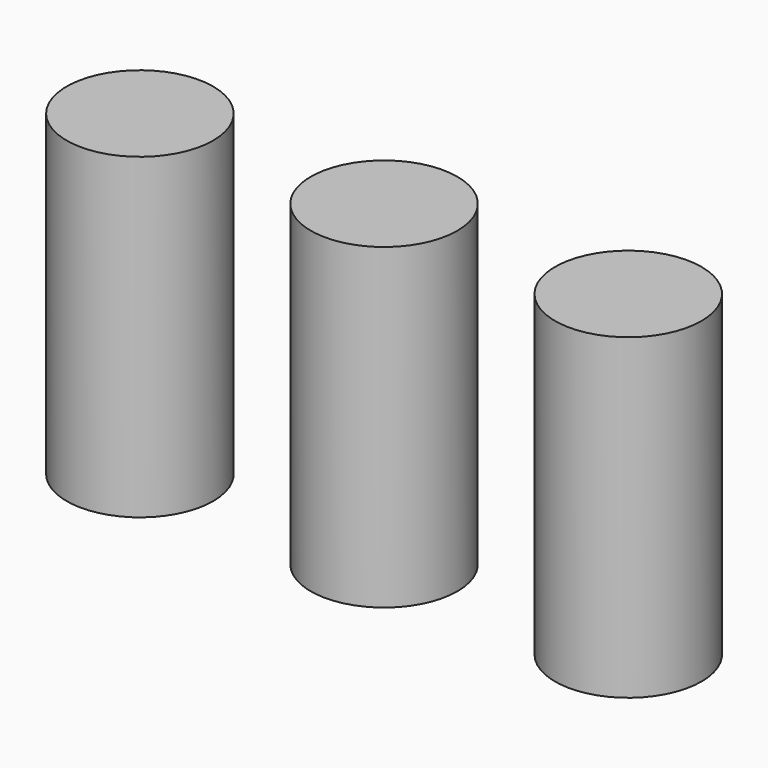
from build123d import *

# Parameters (mm, degrees)
CYLINDER_R     = 3
CYLINDER_DEPTH = 13


with BuildPart() as master:
    # Cylinder → Cylinder (new body)
    with BuildSketch(Plane.XY):
        Circle(CYLINDER_R)
    extrude(amount=CYLINDER_DEPTH)


with BuildPart() as obj1:
    # Clone base: copy of Master
    add(master.part)


with BuildPart() as obj1_1:
    # Clone placement: moved
    add(obj1.part.moved(Location((10, 0, 0))))


with BuildPart() as obj2:
    # Clone002 base: copy of Master
    add(master.part)


with BuildPart() as obj2_1:
    # Clone002 placement: moved
    add(obj2.part.moved(Location((20, 0, 0))))


solid = Compound([master.part, obj1_1.part, obj2_1.part])
